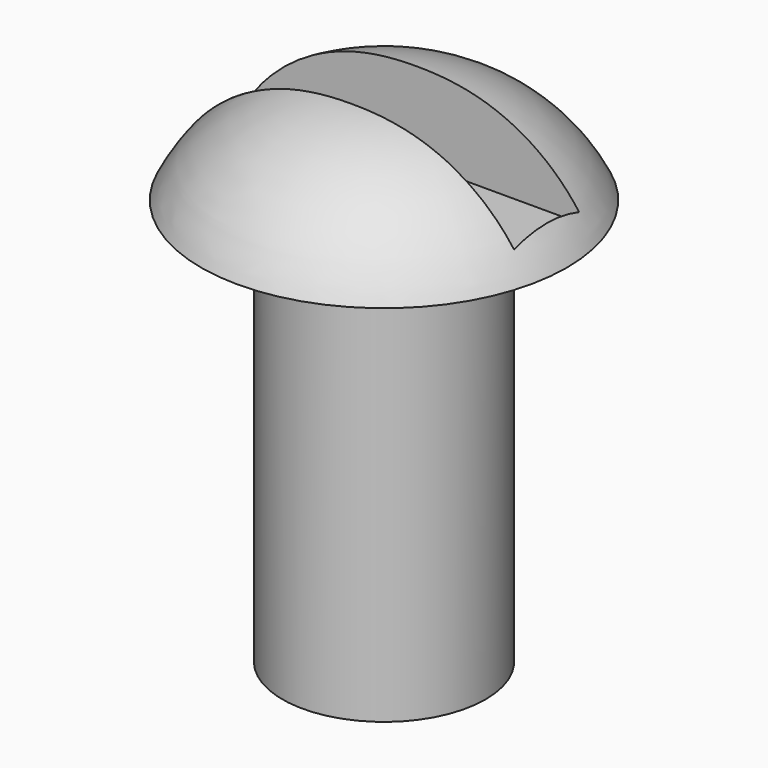
from build123d import *

# Parameters (mm, degrees)
F3_W     = 10.16
F3_H     = 2.54
F4_DEPTH = 2.697598


with BuildPart() as f1:
    # F0 (on Front) → F1 (revolve)
    with BuildSketch(Plane.XZ):
        with BuildLine():
            Line((0, 15.875), (0, 0))
            Line((0, 0), (3.175, 0))
            Line((3.175, 0), (3.175, 12.7))
            Line((3.175, 12.7), (5.715, 12.7))
            ThreePointArc((5.715, 12.7), (3.356337, 15.185407), (0, 15.875))
        make_face()
    revolve(axis=Axis((0, 0, 7.9375), (0, 0, 1)))

    # F3 (on offset) → F4 (cut, through all)
    with BuildSketch(Plane.XY.offset(13.208)):
        Rectangle(F3_W, F3_H)
    extrude(amount=F4_DEPTH, mode=Mode.SUBTRACT)


solid = f1.part
